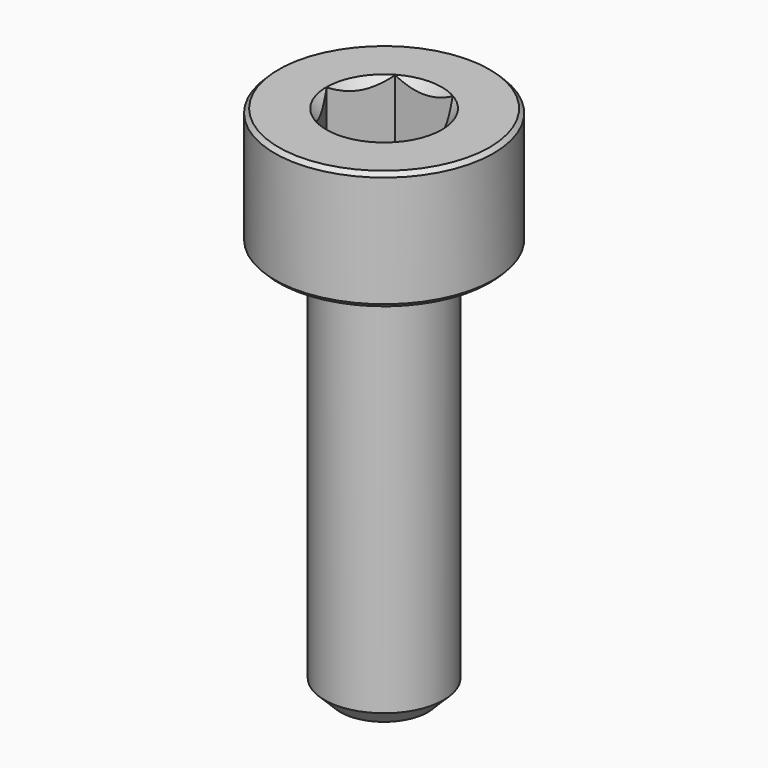
from build123d import *

# Parameters (mm, degrees)
SKETCH047_R     = 3.75
POCKET018_DEPTH = 9.70192
CHAMFER023_SIZE = 0.4
CHAMFER024_SIZE = 0.1


with BuildPart() as pocket018:
    # Sketch045 → Revolution011 (revolve)
    with BuildSketch(Plane.XZ):
        Polygon((0, 0.29908), (2.75, 1.3), (2.75, 10), (0, 10), align=None)
    revolve(axis=Axis((0, 0, 0), (0, 0, 1)))

    # Sketch047 (on Face3 of Revolution011) → Pocket018 (cut, through all)
    with BuildSketch(Plane(origin=(0, 0, 10), x_dir=(-1, 0, 0), z_dir=(0, 0, 1))):
        Circle(SKETCH047_R)
        Polygon((-0.721688, 1.25), (0.721688, 1.25), (1.443376, 0), (0.721688, -1.25), (-0.721688, -1.25), (-1.443376, 0), align=None, mode=Mode.SUBTRACT)
    extrude(amount=-POCKET018_DEPTH, mode=Mode.SUBTRACT)


with BuildPart() as chamfer024:
    # Sketch046 → Revolution010 (revolve)
    with BuildSketch(Plane.XZ):
        Polygon((1.45, 3), (2.75, 3), (2.75, 0), (1.5, 0), (1.5, -10), (0, -10), (0, 1.549999), align=None)
    revolve(axis=Axis((0, 0, 0), (0, 0, 1)))

    # Cut002004: cut Pocket018
    add(pocket018.part, mode=Mode.SUBTRACT)

    # Chamfer023
    chamfer023_edges = [chamfer024.edges().sort_by_distance(p)[0] for p in [
        (-1.5, 0, -10),
    ]]
    chamfer(chamfer023_edges, length=CHAMFER023_SIZE)

    # Chamfer024
    chamfer024_edges = [chamfer024.edges().sort_by_distance(p)[0] for p in [
        (-2.75, 0, 0),
        (-2.75, 0, 3),
    ]]
    chamfer(chamfer024_edges, length=CHAMFER024_SIZE)


solid = chamfer024.part
